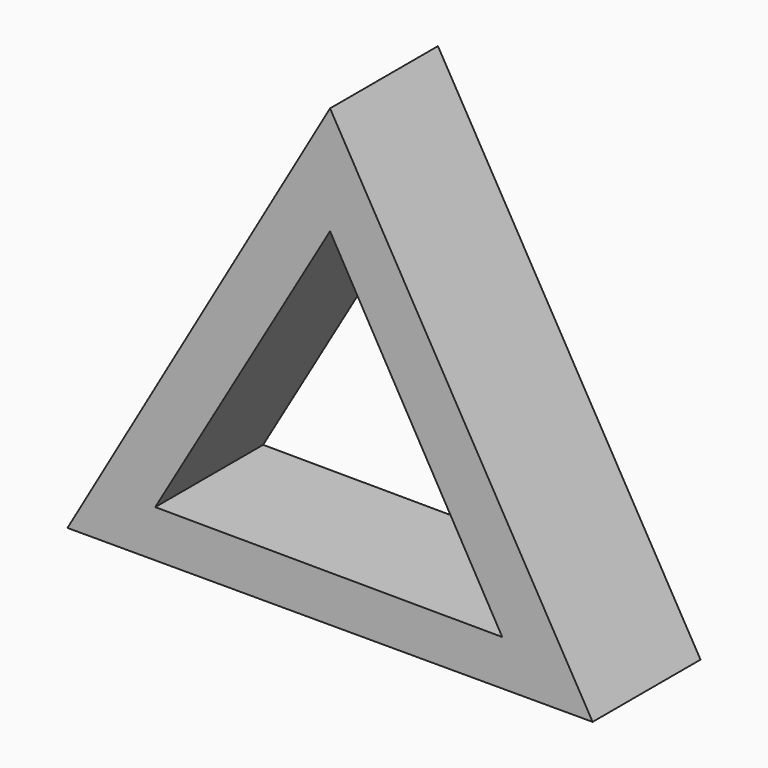
from build123d import *

# Parameters (mm, degrees)
F1_DEPTH = 25.4


with BuildPart() as f1:
    # F0 (on Front) → F1 (new body)
    with BuildSketch(Plane.XZ):
        Polygon((49.445964, -85.642923), (0, 0), (-49.445964, -85.642923), align=None)
        Polygon((32.426757, -77.10283), (-32.924477, -76.815471), (0, -20.363322), align=None, mode=Mode.SUBTRACT)
    extrude(amount=F1_DEPTH)


solid = f1.part
